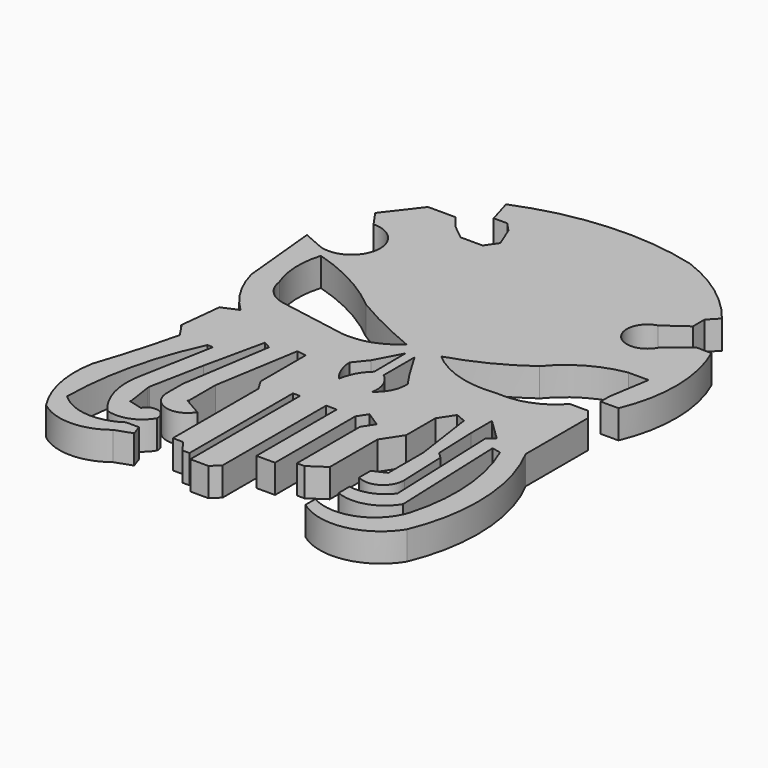
from build123d import *

# Parameters (mm, degrees)
F1_DEPTH = 38.1
F3_DEPTH = 127


with BuildPart() as f1:
    # F0 (on Top) → F1 (new body)
    with BuildSketch(Plane.XY):
        with BuildLine():
            Line((-731.1916947365, 26.4870785177), (-722.5130796432, 11.9746224955))
            Line((-722.5130796432, 11.9746224955), (-722.5130796432, -131.3378661871))
            Line((-722.5130796432, -131.3378661871), (-708.6655497551, -131.3378661871))
            Line((-708.6655497551, -131.3378661871), (-697.2703933716, -146.8154191971))
            Line((-697.2703933716, -146.8154191971), (-687.8136396408, -146.8154191971))
            Line((-687.8136396408, -146.8154191971), (-687.8136396408, 12.0345707983))
            Line((-687.8136396408, 12.0345707983), (-687.8136396408, 26.5136063099))
            Line((-687.8136396408, 26.5136063099), (-678.3671379089, 26.5136063099))
            Line((-678.3671379089, 26.5136063099), (-678.3671379089, -157.2403013706))
            Line((-678.3671379089, -157.2403013706), (-653.984606266, -157.2403013706))
            Line((-653.984606266, -157.2403013706), (-643.3111429214, -146.8154191971))
            Line((-643.3111429214, -146.8154191971), (-643.3111429214, 26.5136063099))
            Line((-643.3111429214, 26.5136063099), (-629.1449069977, 26.5136063099))
            Line((-629.1449069977, 26.5136063099), (-629.1449069977, -107.971586287))
            Line((-629.1449069977, -107.971586287), (-618.0527210236, -107.971586287))
            Line((-618.0527210236, -107.971586287), (-604.2500734329, -107.971586287))
            Line((-604.2500734329, -107.971586287), (-604.2500734329, 26.5136063099))
            Line((-604.2500734329, 26.5136063099), (-595.6637263298, 39.6546795964))
            Line((-595.6637263298, 39.6546795964), (-575.5518201783, 26.5136063099))
            Line((-575.5518201783, 26.5136063099), (-585.6077732541, 11.1233577272))
            Line((-585.6077732541, 11.1233577272), (-585.6077732541, -94.6907624602))
            Line((-585.6077732541, -94.6907624602), (-575.5518201783, -94.6907624602))
            Line((-575.5518201783, -94.6907624602), (-553.4026026726, -79.7723308206))
            Line((-553.4026026726, -79.7723308206), (-553.4026026726, 0))
            Line((-553.4026026726, 0), (-536.0786732059, 26.5136063099))
            Line((-536.0786732059, 26.5136063099), (-536.0786732059, 75.4229649901))
            Line((-536.0786732059, 75.4229649901), (-522.9065822192, 95.5823425361))
            Line((-522.9065822192, 95.5823425361), (-509.2833638191, 89.9437069893))
            Line((-509.2833638191, 89.9437069893), (-497.3021447659, 6.8374029361))
            Line((-497.3021447659, 6.8374029361), (-497.3021447659, -51.9358835856))
            Line((-497.3021447659, -51.9358835856), (-514.6051645279, -59.8934851587))
            Line((-514.6051645279, -59.8934851587), (-514.6051645279, -79.1203603148))
            ThreePointArc((-514.6051645279, -79.1203603148), (-486.952639228, -78.7547612417), (-473.848079238, -54.4018081228))
            Line((-473.848079238, -54.4018081228), (-476.2810278798, 9.1153058296))
            Line((-476.2810278798, 9.1153058296), (-484.007271846, 16.6186105041))
            Line((-484.007271846, 16.6186105041), (-486.1694574356, 73.0668996781))
            Line((-486.1694574356, 73.0668996781), (-486.1694574356, 107.8064516187))
            Line((-486.1694574356, 107.8064516187), (-457.0328593254, 79.5105844736))
            Line((-457.0328593254, 79.5105844736), (-466.5707079503, 73.0668996781))
            Line((-466.5707079503, 73.0668996781), (-465.425214794, 43.1614515779))
            Line((-465.425214794, 43.1614515779), (-460.6095552444, -82.5612172484))
            ThreePointArc((-460.6095552444, -82.5612172484), (-482.3571557828, -98.9407724061), (-509.4490647316, -101.6382575035))
            Line((-509.4490647316, -101.6382575035), (-509.4490647316, -119.9463531375))
            ThreePointArc((-509.4490647316, -119.9463531375), (-470.9926647108, -121.5079462188), (-440.9246492968, -97.4819660187))
            Line((-440.9246492968, -97.4819660187), (-446.9517565937, 59.8680307725))
            Line((-446.9517565937, 59.8680307725), (-434.8975419998, 57.2951585054))
            ThreePointArc((-434.8975419998, 57.2951585054), (-414.6334482613, -24.645398955), (-423.3825206757, -108.5998043418))
            ThreePointArc((-423.3825206757, -108.5998043418), (-462.7997938571, -149.9474360714), (-519.7864770889, -145.9642201662))
            Line((-519.7864770889, -145.9642201662), (-519.7864770889, -162.6098304987))
            ThreePointArc((-519.7864770889, -162.6098304987), (-455.9895007094, -176.8255945828), (-402.1459817886, -139.7713422775))
            ThreePointArc((-402.1459817886, -139.7713422775), (-383.2691520577, -33.1757452244), (-411.6906225681, 71.2808296084))
            Line((-411.6906225681, 71.2808296084), (-411.6906225681, 104.6967282891))
            Line((-411.6906225681, 104.6967282891), (-411.6906225681, 128.3455342054))
            Line((-411.6906225681, 128.3455342054), (-411.6906225681, 175.9964376688))
            Line((-411.6906225681, 175.9964376688), (-422.219056836, 188.6389255524))
            Line((-422.219056836, 188.6389255524), (-446.5032815933, 188.6389255524))
            ThreePointArc((-446.5032815933, 188.6389255524), (-476.4271149395, 166.8911070934), (-512.7006173134, 159.6360098933))
            Line((-512.7006173134, 159.6360098933), (-524.7482061386, 159.6360098933))
            ThreePointArc((-524.7482061386, 159.6360098933), (-574.8934480872, 164.2635413218), (-618.9593076706, 188.6389255524))
            ThreePointArc((-618.9593076706, 188.6389255524), (-569.8726918497, 208.2799185923), (-524.7482061386, 235.830694437))
            ThreePointArc((-524.7482061386, 235.830694437), (-488.2257726665, 266.6031639409), (-443.1851804256, 282.483279705))
            Line((-443.1851804256, 282.483279705), (-415.9694612026, 282.483279705))
            Line((-415.9694612026, 282.483279705), (-424.773812294, 227.8423756361))
            Line((-424.773812294, 227.8423756361), (-424.773812294, 213.0438387394))
            Line((-424.773812294, 213.0438387394), (-400.7667005062, 213.0438387394))
            ThreePointArc((-400.7667005062, 213.0438387394), (-385.1851571559, 292.2772677462), (-402.749746719, 371.0948162924))
            Line((-402.749746719, 371.0948162924), (-423.2540428638, 371.4144825935))
            Line((-423.2540428638, 371.4144825935), (-453.2321989536, 347.4491536617))
            ThreePointArc((-453.2321989536, 347.4491536617), (-499.4858098016, 340.785048544), (-485.436052084, 385.3542208672))
            Line((-485.436052084, 385.3542208672), (-455.8143913746, 406.5436124802))
            Line((-455.8143913746, 406.5436124802), (-455.8143913746, 426.155179739))
            Line((-455.8143913746, 426.155179739), (-443.1851804256, 439.33609128))
            ThreePointArc((-443.1851804256, 439.33609128), (-489.7900132944, 484.6395194203), (-546.9671487808, 515.5456066132))
            ThreePointArc((-546.9671487808, 515.5456066132), (-665.3723554836, 527.1034219229), (-781.2833189964, 500.3074407578))
            Line((-781.2833189964, 500.3074407578), (-771.6345787048, 467.5349295139))
            Line((-771.6345787048, 467.5349295139), (-753.3994317055, 467.5349295139))
            Line((-753.3994317055, 467.5349295139), (-742.0908212662, 455.3326070309))
            Line((-742.0908212662, 455.3326070309), (-731.0435175896, 427.9921352863))
            Line((-731.0435175896, 427.9921352863), (-742.0908212662, 412.1351242065))
            Line((-742.0908212662, 412.1351242065), (-771.6345787048, 412.1351242065))
            Line((-771.6345787048, 412.1351242065), (-791.2870645523, 427.9921352863))
            Line((-791.2870645523, 427.9921352863), (-804.238140583, 444.5481002331))
            Line((-804.238140583, 444.5481002331), (-841.2569761276, 444.5481002331))
            Line((-841.2569761276, 444.5481002331), (-876.0067820549, 399.4933068752))
            Line((-876.0067820549, 399.4933068752), (-861.0913157463, 378.2041370869))
            ThreePointArc((-861.0913157463, 378.2041370869), (-822.2292208688, 333.8435879914), (-873.0680942535, 303.9516210556))
            Line((-873.0680942535, 303.9516210556), (-900.6041288376, 315.9742057323))
            Line((-900.6041288376, 315.9742057323), (-890.2077078819, 209.787979722))
            ThreePointArc((-890.2077078819, 209.787979722), (-874.3115787114, 171.8348898736), (-848.6250042915, 139.6895349026))
            Line((-848.6250042915, 139.6895349026), (-870.3500032425, 130.4563581944))
            Line((-870.3500032425, 130.4563581944), (-869.7589039803, 130.6460946798))
            Line((-869.7589039803, 130.6460946798), (-875.7906556129, 73.9481821656))
            Line((-875.7906556129, 73.9481821656), (-875.1995563507, 74.1379112005))
            Line((-875.1995563507, 74.1379112005), (-862.7149177225, 55.6296244927))
            ThreePointArc((-862.7149177225, 55.6296244927), (-876.9572464178, 1.6110286224), (-893.5905694962, -51.7198741436))
            ThreePointArc((-893.5905694962, -51.7198741436), (-893.4287937553, -105.8414051941), (-872.7551102638, -155.8590531349))
            ThreePointArc((-872.7551102638, -155.8590531349), (-827.9657363892, -171.324296948), (-783.1763625145, -155.8590531349))
            Line((-783.1763625145, -155.8590531349), (-760.9121203423, -147.9903161526))
            Line((-760.9121203423, -147.9903161526), (-765.8636419713, -133.9802053917))
            Line((-765.8636419713, -133.9802053917), (-783.1763625145, -133.9802053917))
            ThreePointArc((-783.1763625145, -133.9802053917), (-827.0247173917, -145.269269111), (-868.1616783142, -126.3517737389))
            ThreePointArc((-868.1616783142, -126.3517737389), (-856.9638188857, -32.8825469526), (-826.0206580162, 56.024197489))
            Line((-826.0206580162, 56.024197489), (-818.5369372368, 56.024197489))
            Line((-818.5369372368, 56.024197489), (-837.4670147896, -45.4388856888))
            ThreePointArc((-837.4670147896, -45.4388856888), (-835.5165665415, -88.1350122498), (-814.8064613342, -125.5229115486))
            ThreePointArc((-814.8064613342, -125.5229115486), (-785.7931191237, -125.1346402811), (-763.5766267776, -106.4704433084))
            ThreePointArc((-763.5766267776, -106.4704433084), (-774.3069923685, -91.3348306482), (-791.3212180138, -98.7337252954))
            Line((-791.3212180138, -98.7337252954), (-809.6176981926, -93.8687250018))
            Line((-809.6176981926, -93.8687250018), (-809.2222213745, -93.0898562074))
            Line((-809.2222213745, -93.0898562074), (-814.4593834877, -57.6112419367))
            Line((-814.4593834877, -57.6112419367), (-814.4550919533, -55.654078722))
            Line((-814.4550919533, -55.654078722), (-800.1184463501, 17.40015205))
            Line((-800.1184463501, 17.40015205), (-782.4180722237, 98.053380847))
            Line((-782.4180722237, 98.053380847), (-772.8795728383, 92.5909208144))
            Line((-772.8795728383, 92.5909208144), (-772.3875641823, 93.4500619769))
            Line((-772.3875641823, 93.4500619769), (-791.3212180138, -28.6431722343))
            Line((-791.3212180138, -28.6431722343), (-791.3212180138, -55.4543435574))
            ThreePointArc((-791.3212180138, -55.4543435574), (-770.63155599, -82.3851642727), (-739.2786741257, -69.3341866136))
            Line((-739.2786741257, -69.3341866136), (-763.4490561163, -55.4543435574))
            Line((-763.4490561163, -55.4543435574), (-762.6730799675, -54.0263690054))
            Line((-762.6730799675, -54.0263690054), (-762.6730799675, -9.4109801576))
            Line((-762.6730799675, -9.4109801576), (-743.8173890114, 103.9249300957))
            Line((-743.8173890114, 103.9249300957), (-743.0178838831, 103.9249300957))
            Line((-743.0178838831, 103.9249300957), (-731.1916947365, 101.9574074699))
            Line((-731.1916947365, 101.9574074699), (-731.1916947365, 26.4870785177))
        make_face()
    extrude(amount=-F1_DEPTH)


with BuildPart() as f3:
    # F2 (on Top) → F3 (new body)
    with BuildSketch(Plane.XY):
        with BuildLine():
            ThreePointArc((-664.4893288612, 187.377512455), (-709.8576008155, 207.6992325151), (-753.6029815674, 231.3126623631))
            ThreePointArc((-753.6029815674, 231.3126623631), (-803.6907655479, 265.2484372978), (-859.6902489662, 288.1499826908))
            ThreePointArc((-859.6902489662, 288.1499826908), (-864.4560638647, 251.1162867025), (-856.6317558289, 214.6061807871))
            ThreePointArc((-856.6317558289, 214.6061807871), (-846.0173180018, 192.0301678032), (-824.0290880203, 180.2462637424))
            Line((-824.0290880203, 180.2462637424), (-742.3864006996, 166.0382151604))
            ThreePointArc((-742.3864006996, 166.0382151604), (-700.6818571145, 166.6473203806), (-664.4893288612, 187.377512455))
        make_face()
    extrude(amount=-F3_DEPTH)


with BuildPart() as f3b:
    # F2 (on Top) → F3, piece 2 (new body)
    with BuildSketch(Plane.XY):
        with BuildLine():
            Line((-652.023434639, 117.9473772645), (-652.4669528008, 170.8715111017))
            Line((-652.4669528008, 170.8715111017), (-670.8592772484, 136.1133605242))
            Line((-670.8592772484, 136.1133605242), (-685.4072213173, 117.9473772645))
            ThreePointArc((-685.4072213173, 117.9473772645), (-681.1231120294, 98.9007467767), (-670.8874702454, 82.276687026))
            ThreePointArc((-670.8874702454, 82.276687026), (-664.6724607915, 101.8133101312), (-652.023434639, 117.9473772645))
        make_face()
    extrude(amount=-F3_DEPTH)


with BuildPart() as f3c:
    # F2 (on Top) → F3, piece 3 (new body)
    with BuildSketch(Plane.XY):
        with BuildLine():
            Line((-619.27485466, 135.969132185), (-639.3823027611, 169.7098165751))
            Line((-639.3823027611, 169.7098165751), (-639.3823027611, 117.9473772645))
            ThreePointArc((-639.3823027611, 117.9473772645), (-627.1213180542, 101.6284990247), (-624.9378323555, 81.3339203596))
            ThreePointArc((-624.9378323555, 81.3339203596), (-611.1482840571, 97.2612962253), (-607.1584224701, 117.9473772645))
            Line((-607.1584224701, 117.9473772645), (-619.27485466, 135.969132185))
        make_face()
    extrude(amount=-F3_DEPTH)


with BuildPart() as f1_1:
    add(f1.part)

    # F4: cut F3
    add(f3.part, mode=Mode.SUBTRACT)

    # F5: cut F3c
    add(f3c.part, mode=Mode.SUBTRACT)

    # F6: cut F3b
    add(f3b.part, mode=Mode.SUBTRACT)


solid = f1_1.part
